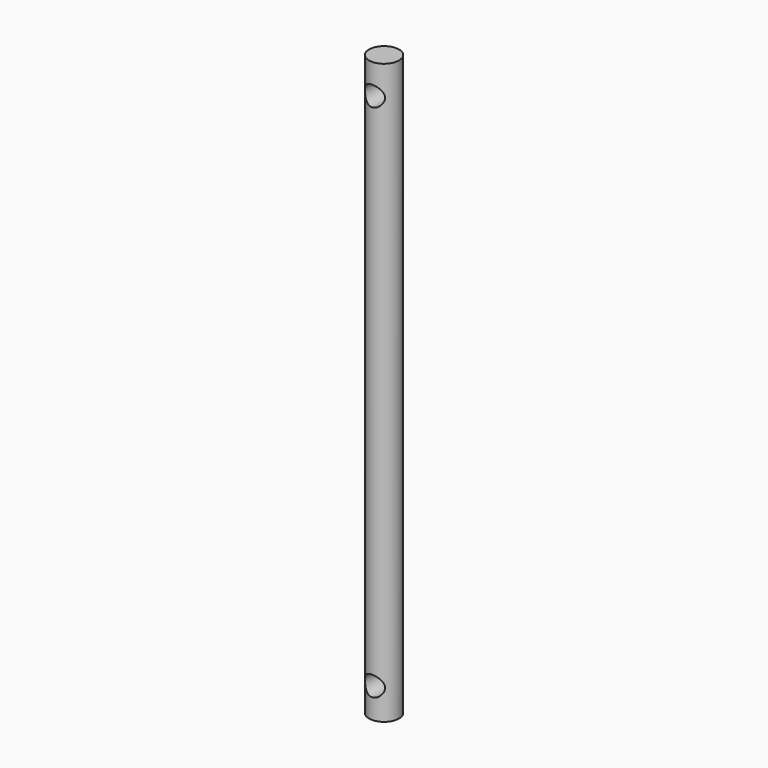
from build123d import *

# Parameters (mm, degrees)
F0_R     = 9.525
F1_DEPTH = 184.15
F2_R     = 6.35
F3_DEPTH = 12.7


with BuildPart() as f1:
    # F0 (on Top) → F1 (new body, symmetric)
    with BuildSketch(Plane.XY):
        Circle(F0_R)
    extrude(amount=F1_DEPTH, both=True)

    # F2 (on Front) → F3 (cut, symmetric)
    with BuildSketch(Plane.XZ):
        with Locations((0, -165.1)):
            Circle(F2_R)
        with Locations((0, 165.1)):
            Circle(F2_R)
    extrude(amount=F3_DEPTH, both=True, mode=Mode.SUBTRACT)


solid = f1.part
